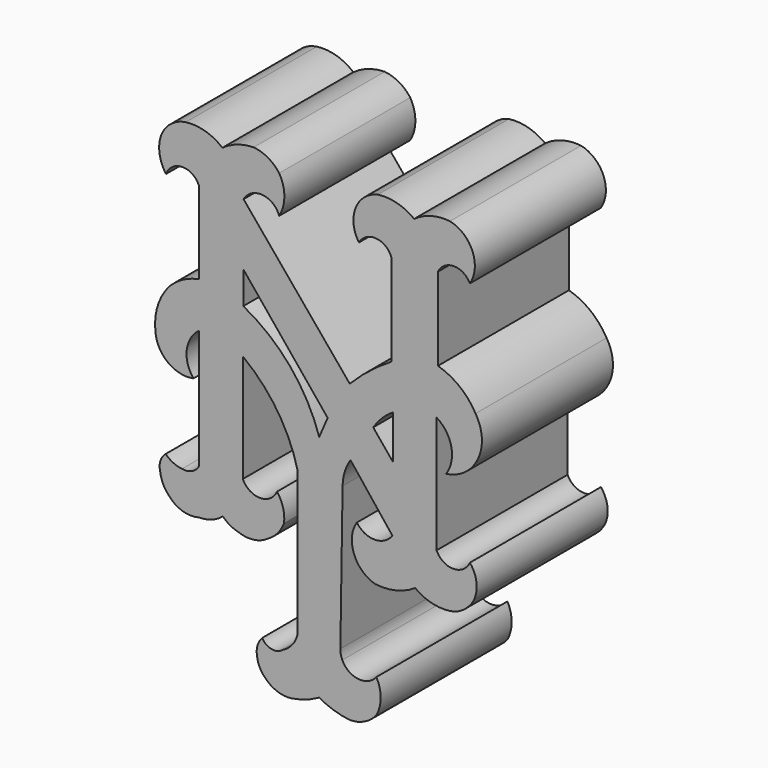
from build123d import *

# Parameters (mm, degrees)
F1_DEPTH = 50.8


with BuildPart() as f1:
    # F0 (on Front) → F1 (new body)
    with BuildSketch(Plane.XZ):
        with BuildLine():
            ThreePointArc((22.439383, 29.13105), (15.63549, 24.408793), (9.478033, 18.869985))
            Line((9.478033, 18.869985), (-23.461929, 58.559932))
            ThreePointArc((-23.461929, 58.559932), (-17.627724, 61.636811), (-12.409047, 57.603136))
            ThreePointArc((-12.409047, 57.603136), (-10.811238, 63.430969), (-12.409047, 69.258802))
            ThreePointArc((-12.409047, 69.258802), (-15.886595, 72.352499), (-20.328924, 73.741749))
            ThreePointArc((-20.328924, 73.741749), (-25.439806, 72.849507), (-30.041976, 70.454255))
            ThreePointArc((-30.041976, 70.454255), (-35.3729, 73.298377), (-41.398779, 73.741749))
            ThreePointArc((-41.398779, 73.741749), (-46.195621, 71.631394), (-49.169224, 67.316189))
            ThreePointArc((-49.169224, 67.316189), (-49.483254, 62.267433), (-47.525477, 57.603136))
            ThreePointArc((-47.525477, 57.603136), (-42.391887, 61.189751), (-37.258297, 57.603136))
            Line((-37.258297, 57.603136), (-37.258297, 32.199763))
            ThreePointArc((-37.258297, 32.199763), (-42.167966, 30.518016), (-46.330024, 27.41795))
            ThreePointArc((-46.330024, 27.41795), (-50.063504, 20.954714), (-50.81061, 13.528131))
            ThreePointArc((-50.81061, 13.528131), (-46.942892, 6.36599), (-39.005515, 4.562234))
            ThreePointArc((-39.005515, 4.562234), (-41.07612, 11.736213), (-37.258297, 18.153191))
            Line((-37.258297, 18.153191), (-37.258297, -18.857189))
            ThreePointArc((-37.258297, -18.857189), (-39.487397, -20.916304), (-42.500529, -21.276681))
            ThreePointArc((-42.500529, -21.276681), (-45.274392, -20.531283), (-47.608346, -18.857189))
            ThreePointArc((-47.608346, -18.857189), (-49.230344, -21.155103), (-49.355764, -23.965007))
            ThreePointArc((-49.355764, -23.965007), (-48.428049, -27.320039), (-46.398599, -30.148152))
            ThreePointArc((-46.398599, -30.148152), (-42.216094, -32.810312), (-37.258297, -32.836478))
            ThreePointArc((-37.258297, -32.836478), (-33.318107, -32.162609), (-29.865403, -30.148152))
            ThreePointArc((-29.865403, -30.148152), (-27.712308, -31.840895), (-25.160836, -32.836478))
            ThreePointArc((-25.160836, -32.836478), (-20.455986, -33.443738), (-16.020531, -31.761147))
            ThreePointArc((-16.020531, -31.761147), (-12.932619, -29.265174), (-10.912713, -25.846833))
            ThreePointArc((-10.912713, -25.846833), (-11.2086, -21.67018), (-13.063374, -17.916275))
            ThreePointArc((-13.063374, -17.916275), (-18.372816, -21.371176), (-23.682257, -17.916275))
            Line((-23.682257, -17.916275), (-23.682257, 15.553372))
            ThreePointArc((-23.682257, 15.553372), (-12.957597, 4.154356), (-6.669553, -10.177998))
            Line((-6.669553, -10.177998), (-6.669553, -54.607033))
            ThreePointArc((-6.669553, -54.607033), (-8.287699, -58.119332), (-11.300034, -60.544301))
            ThreePointArc((-11.300034, -60.544301), (-14.772838, -61.47915), (-17.679371, -59.361041))
            ThreePointArc((-17.679371, -59.361041), (-19.114876, -61.809201), (-19.297592, -64.641298))
            ThreePointArc((-19.297592, -64.641298), (-18.536614, -67.512258), (-16.814196, -69.931922))
            ThreePointArc((-16.814196, -69.931922), (-13.12521, -72.407987), (-8.715694, -72.95177))
            ThreePointArc((-8.715694, -72.95177), (-4.221828, -71.834414), (0, -69.931922))
            ThreePointArc((0, -69.931922), (4.559252, -71.907947), (9.41743, -72.95177))
            ThreePointArc((9.41743, -72.95177), (14.035159, -71.901137), (17.746311, -68.959267))
            ThreePointArc((17.746311, -68.959267), (19.072395, -63.743091), (17.746311, -58.526916))
            ThreePointArc((17.746311, -58.526916), (12.125868, -60.902929), (7.176861, -57.333316))
            ThreePointArc((7.176861, -57.333316), (6.708307, -55.925452), (6.564894, -54.448612))
            Line((6.564894, -54.448612), (7.254593, -9.766534))
            ThreePointArc((7.254593, -9.766534), (7.915044, -5.648664), (9.714889, -1.886536))
            Line((9.714889, -1.886536), (22.694213, -18.315103))
            ThreePointArc((22.694213, -18.315103), (17.190391, -21.190166), (11.686569, -18.315103))
            ThreePointArc((11.686569, -18.315103), (10.214197, -22.212635), (10.536366, -26.36653))
            ThreePointArc((10.536366, -26.36653), (13.072681, -30.734713), (17.444285, -33.265127))
            ThreePointArc((17.444285, -33.265127), (23.869566, -32.903906), (29.75891, -30.309618))
            ThreePointArc((29.75891, -30.309618), (35.644058, -32.921994), (42.081258, -32.773871))
            ThreePointArc((42.081258, -32.773871), (45.511296, -30.776469), (47.995683, -27.680892))
            ThreePointArc((47.995683, -27.680892), (48.784561, -22.594925), (46.756167, -17.864702))
            ThreePointArc((46.756167, -17.864702), (41.584109, -21.216198), (36.41205, -17.864702))
            Line((36.41205, -17.864702), (36.41205, 18.417337))
            ThreePointArc((36.41205, 18.417337), (41.00077, 11.851308), (39.371705, 4.008144))
            ThreePointArc((39.371705, 4.008144), (44.606315, 5.931777), (48.501298, 9.923093))
            ThreePointArc((48.501298, 9.923093), (50.482427, 16.674256), (48.501298, 23.425419))
            ThreePointArc((48.501298, 23.425419), (43.576958, 29.192803), (36.828664, 32.652915))
            Line((36.828664, 32.652915), (36.828664, 58.368564))
            ThreePointArc((36.828664, 58.368564), (41.780885, 61.482849), (46.733106, 58.368564))
            ThreePointArc((46.733106, 58.368564), (47.54337, 67.461962), (40.576808, 73.362254))
            ThreePointArc((40.576808, 73.362254), (34.734779, 72.917336), (29.45341, 70.380725))
            ThreePointArc((29.45341, 70.380725), (24.129346, 72.98331), (18.215336, 73.362254))
            ThreePointArc((18.215336, 73.362254), (11.281464, 67.4316), (12.336258, 58.368564))
            ThreePointArc((12.336258, 58.368564), (17.676832, 61.210114), (22.439383, 57.479933))
            Line((22.439383, 57.479933), (22.439383, 29.13105))
        make_face()
        with BuildLine():
            Line((-23.548043, 29.330348), (-23.548043, 39.393221))
            Line((-23.548043, 39.393221), (2.61824, 7.316703))
            Line((2.61824, 7.316703), (0, 1.270827))
            ThreePointArc((0, 1.270827), (-9.020803, 17.611136), (-23.548043, 29.330348))
        make_face(mode=Mode.SUBTRACT)
        with BuildLine():
            ThreePointArc((16.760936, 9.333754), (19.47767, 12.721904), (22.865819, 15.43864))
            Line((22.865819, 15.43864), (22.865819, 1.898702))
            Line((22.865819, 1.898702), (16.760936, 9.333754))
        make_face(mode=Mode.SUBTRACT)
    extrude(amount=F1_DEPTH)


solid = f1.part
